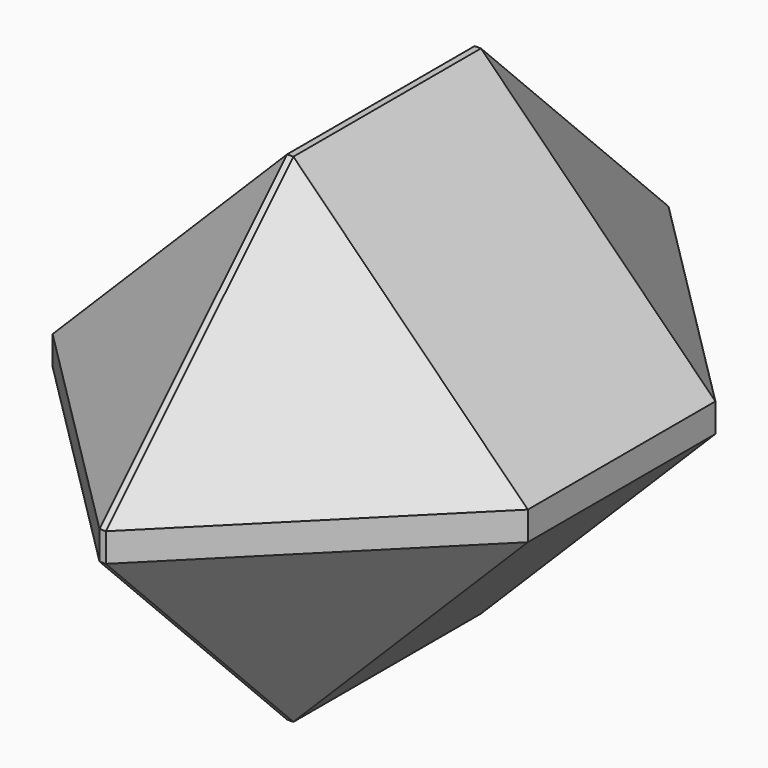
from build123d import *

# Parameters (mm, degrees)
F0_W     = 51.485936
F0_H     = 53.910483
F1_DEPTH = 76.2
F2_SIZE  = 25.4


with BuildPart() as f1:
    # F0 (on Front) → F1 (new body)
    with BuildSketch(Plane.XZ):
        with Locations((-0.249586, 0.463515)):
            Rectangle(F0_W, F0_H)
    extrude(amount=F1_DEPTH)

    # F2
    f2_edges = [f1.edges().sort_by_distance(p)[0] for p in [
        (25.493382, -38.1, 27.418757),
        (-25.992554, -38.1, 27.418757),
        (-0.249586, 0, 27.418757),
        (-0.249586, -76.2, 27.418757),
        (-25.992554, -76.2, 0.463516),
        (-0.249586, -76.2, -26.491726),
        (25.493382, -76.2, 0.463516),
        (-25.992554, -38.1, -26.491726),
        (25.493382, -38.1, -26.491726),
        (-0.249586, 0, -26.491726),
        (25.493382, 0, 0.463516),
    ]]
    chamfer(f2_edges, length=F2_SIZE)


solid = f1.part
